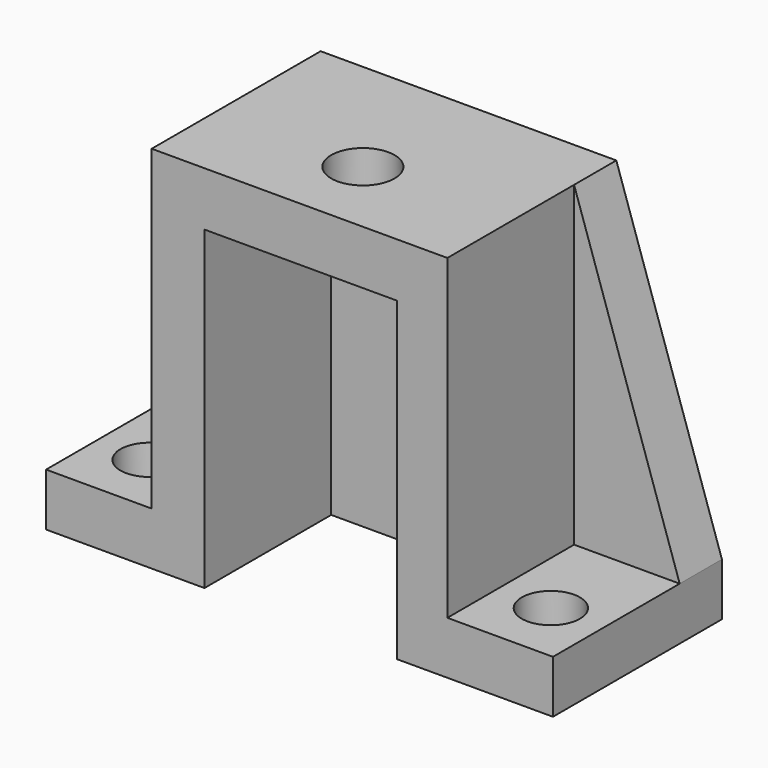
from build123d import *

# Parameters (mm, degrees)
F1_DEPTH = 10
F3_DEPTH = 30
F4_R     = 5.5
F5_DEPTH = 25
F6_R     = 6
F7_DEPTH = 25
F8_R     = 5.5
F9_DEPTH = 25


with BuildPart() as f1:
    # F0 (on Front) → F1 (new body)
    with BuildSketch(Plane.XZ):
        Polygon((-48, 10), (-48, 0), (48, 0), (48, 10), (28.000001, 70), (-28.000001, 70), align=None)
    extrude(amount=F1_DEPTH)

    # F2 (on face) → F3 (join)
    with BuildSketch(Plane.XZ.offset(10)):
        Polygon((-28.000001, 10), (-48, 10), (-48, 0), (-18, 0), (-18, 59.777446), (18.501991, 59.777446), (18.501991, 0), (48, 0), (48, 10), (28.000001, 10), (28.000001, 70), (-28.000001, 70), align=None)
    extrude(amount=F3_DEPTH)

    # F4 (on face) → F5 (cut)
    with BuildSketch(Plane.XY.offset(10)):
        with Locations((-38, -28)):
            Circle(F4_R)
    extrude(amount=-F5_DEPTH, mode=Mode.SUBTRACT)

    # F6 (on face) → F7 (cut)
    with BuildSketch(Plane.XY.offset(70)):
        with Locations((0, -25)):
            Circle(F6_R)
    extrude(amount=-F7_DEPTH, mode=Mode.SUBTRACT)

    # F8 (on face) → F9 (cut)
    with BuildSketch(Plane.XY.offset(10)):
        with Locations((38, -28)):
            Circle(F8_R)
    extrude(amount=-F9_DEPTH, mode=Mode.SUBTRACT)


solid = f1.part
